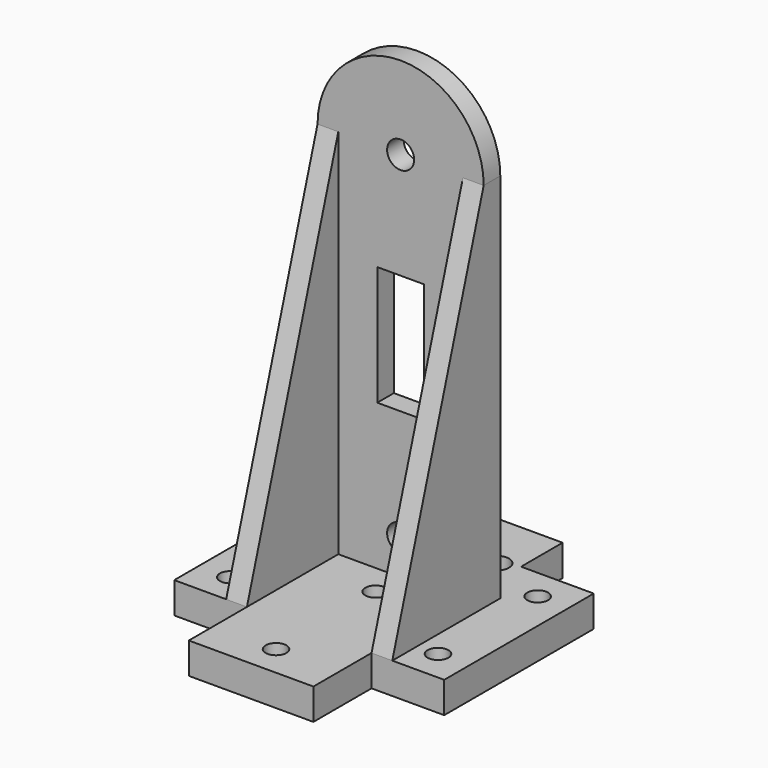
from build123d import *

# Parameters (mm, degrees)
F0_R          = 1.3
F1_DEPTH      = 2
F2_W          = 12
F2_H          = 3
F3_DEPTH      = 18
F3_DEPTH_BACK = 12
F4_W          = 5
F4_H          = 3
F4_W_2        = 2
F4_H_2        = 35.8160760757
F5_DEPTH      = 2
F6_W          = 2
F6_H          = 35.8160760757
F7_DEPTH      = 2
F9_DEPTH      = 5
F11_DEPTH     = 5
F12_R         = 1
F13_DEPTH     = 5
F14_W         = 2.25
F14_H         = 11.5
F15_DEPTH     = 3
F16_R         = 1.2
F17_DEPTH     = 3
F19_DEPTH     = 2


with BuildPart() as f1:
    # F0 (on Front) → F1 (new body)
    with BuildSketch(Plane.XZ):
        with BuildLine():
            Line((-16.9256870747, 6.6775220651), (-16.9256870747, 9.9935981408))
            Line((-16.9256870747, 9.9935981408), (-16.9256870747, 10.6775220651))
            Line((-16.9256870747, 10.6775220651), (-16.9256870747, 42.4935981408))
            ThreePointArc((-16.9256870747, 42.4935981408), (-22.9256870747, 48.4935981408), (-28.9256870747, 42.4935981408))
            Line((-28.9256870747, 42.4935981408), (-28.9256870747, 9.9935981408))
            Line((-28.9256870747, 9.9935981408), (-28.9256870747, 6.6775220651))
            Line((-28.9256870747, 6.6775220651), (-16.9424954802, 6.6775220651))
            Line((-16.9424954802, 6.6775220651), (-16.9256870747, 6.6775220651))
        make_face()
        with Locations((-22.9256870747, 9.9935981408)):
            Circle(F0_R, mode=Mode.SUBTRACT)
        with Locations((-22.9256870747, 42.4935981408)):
            Circle(F0_R, mode=Mode.SUBTRACT)
    extrude(amount=F1_DEPTH)

    # F2 (on face) → F3 (join, two sides)
    with BuildSketch(Plane.XZ.offset(2)) as f3_sk:
        with Locations((-22.9256870747, 5.1775220651)):
            Rectangle(F2_W, F2_H)
    extrude(amount=F3_DEPTH)
    extrude(f3_sk.sketch, amount=-F3_DEPTH_BACK)

    # F4 (on face) → F5 (join)
    with BuildSketch(Plane.YZ.offset(-16.9256870747)):
        Polygon((-13, 6.6775220651), (-2, 6.6775220651), (-2, 42.4935981408), align=None)
        Polygon((0, 3.6775220651), (0, 6.6775220651), (-2, 6.6775220651), (-13, 6.6775220651), (-13, 3.6775220651), align=None)
        with Locations((2.5, 5.1775220651)):
            Rectangle(F4_W, F4_H)
        with Locations((-1, 24.5855601029)):
            Rectangle(F4_W_2, F4_H_2)
    extrude(amount=F5_DEPTH)

    # F6 (on face) → F7 (join)
    with BuildSketch(Plane(origin=(-28.9256870747, 0, 0), x_dir=(0, -1, 0), z_dir=(-1, 0, 0))):
        Polygon((0, 6.6775220651), (-5, 6.6775220651), (-5, 3.6775220651), (13, 3.6775220651), (13, 6.6775220651), (2, 6.6775220651), align=None)
        Polygon((2, 42.4935981408), (2, 6.6775220651), (13, 6.6775220651), align=None)
        with Locations((1, 24.5855601029)):
            Rectangle(F6_W, F6_H)
    extrude(amount=F7_DEPTH)

    # F8 (on face) → F9 (join)
    with BuildSketch(Plane(origin=(-30.9256870747, 0, 0), x_dir=(0, -1, 0), z_dir=(-1, 0, 0))):
        Polygon((0, 6.6775220651), (-5, 6.6775220651), (-5, 3.6775220651), (13, 3.6775220651), (13, 6.6775220651), align=None)
    extrude(amount=F9_DEPTH)

    # F10 (on face) → F11 (join)
    with BuildSketch(Plane.YZ.offset(-14.9256870747)):
        Polygon((0, 6.6775220651), (-13, 6.6775220651), (-13, 3.6775220651), (5, 3.6775220651), (5, 6.6775220651), align=None)
    extrude(amount=F11_DEPTH)

    # F12 (on face) → F13 (cut)
    with BuildSketch(Plane.XY.offset(6.6775220651)):
        with Locations((-32.9256870747, 2)):
            Circle(F12_R)
        with Locations((-12.9256870747, 2)):
            Circle(F12_R)
        with Locations((-12.9256870747, -10)):
            Circle(F12_R)
        with Locations((-22.9256870747, -5)):
            Circle(F12_R)
        with Locations((-32.9256870747, -10)):
            Circle(F12_R)
        with Locations((-22.9256870747, -17)):
            Circle(F12_R)
    extrude(amount=-F13_DEPTH, mode=Mode.SUBTRACT)

    # F14 (on face) → F15 (cut)
    with BuildSketch(Plane(origin=(0, 0, 0), x_dir=(-1, 0, 0), z_dir=(0, 1, 0))):
        with Locations((24.0506870747, 26.4935981408)):
            Rectangle(F14_W, F14_H)
        with Locations((21.8006870747, 26.4935981408)):
            Rectangle(F14_W, F14_H)
    extrude(amount=-F15_DEPTH, mode=Mode.SUBTRACT)

    # F16 (on face) → F17 (cut)
    with BuildSketch(Plane.XY.offset(6.6775220651)):
        with Locations((-18.7256870747, 4.3)):
            Circle(F16_R)
    extrude(amount=-F17_DEPTH, mode=Mode.SUBTRACT)

    # F18 (on face) → F19 (join)
    with BuildSketch(Plane(origin=(0, 0, 0), x_dir=(-1, 0, 0), z_dir=(0, 1, 0))):
        with BuildLine():
            Line((28.9256870747, 42.4935981408), (30.9256870747, 42.4935981408))
            ThreePointArc((30.9256870747, 42.4935981408), (22.9256870747, 50.4935981408), (14.9256870747, 42.4935981408))
            Line((14.9256870747, 42.4935981408), (16.9256870747, 42.4935981408))
            ThreePointArc((16.9256870747, 42.4935981408), (22.9256870747, 48.4935981408), (28.9256870747, 42.4935981408))
        make_face()
    extrude(amount=-F19_DEPTH)


solid = f1.part
